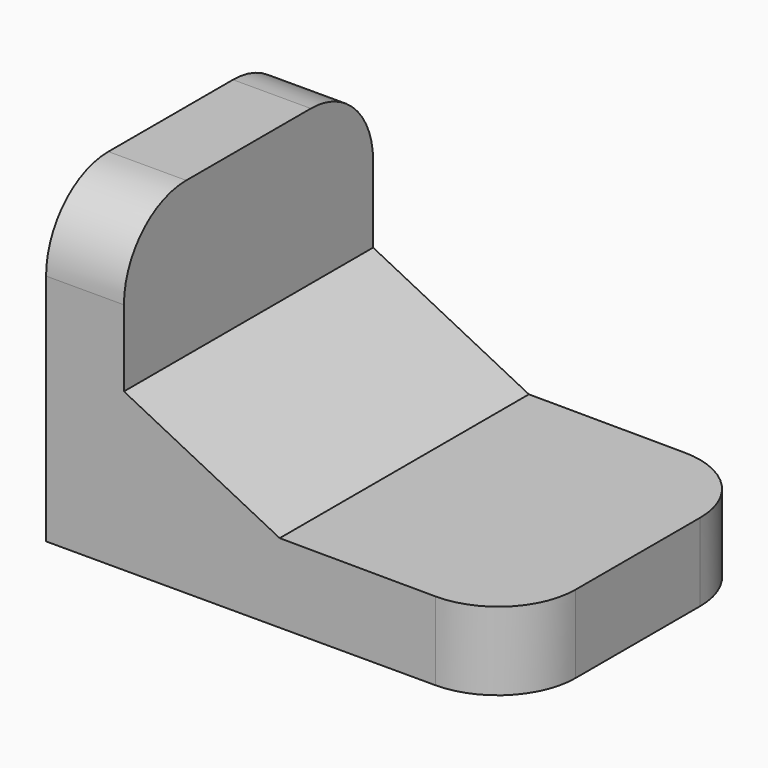
from build123d import *

# Parameters (mm, degrees)
F1_DEPTH = 40
F2_R     = 10


with BuildPart() as f1:
    # F0 (on Front) → F1 (new body)
    with BuildSketch(Plane.XZ):
        Polygon((0, 40), (0, 0), (60, 0), (60, 10), (30.000265, 10.126118), (10, 20.210288), (10, 40), align=None)
    extrude(amount=F1_DEPTH)

    # F2
    f2_edges = [f1.edges().sort_by_distance(p)[0] for p in [
        (5, 0, 40),
        (5, -40, 40),
        (60, -40, 5),
        (60, 0, 5),
    ]]
    fillet(f2_edges, radius=F2_R)


solid = f1.part
